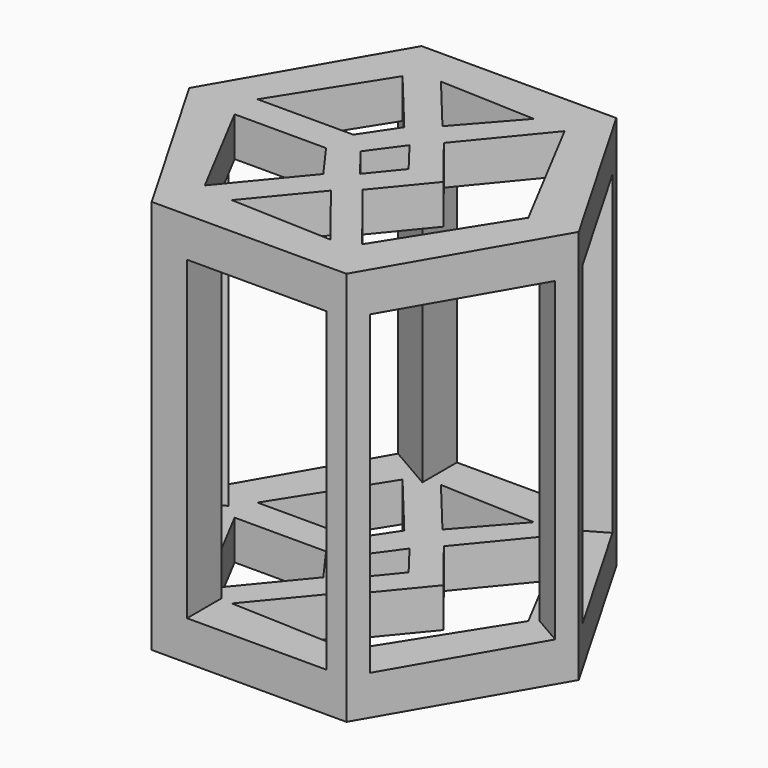
from build123d import *

# Parameters (mm, degrees)
F2_DEPTH = 25.4
F3_W     = 8.992830546
F3_H     = 20.32
F4_DEPTH = 21.7172655679
F6_DEPTH = 27.1463319599
F8_DEPTH = 27.1463319599


with BuildPart() as f2:
    # F1 (on face) → F2 (new body)
    with BuildSketch(Plane.XY):
        Polygon((12.5378917714, 0), (6.2689458857, 10.858132784), (-6.2689458857, 10.858132784), (-12.5378917714, 0), (-6.2689458857, -10.858132784), (6.2689458857, -10.858132784), align=None)
        Polygon((-3.0813198537, -0.8107819997), (-1.428119345, -3.1018054447), (-5.3015932459, -7.7946673792), (-8.9699157746, -0.8107819997), align=None, mode=Mode.SUBTRACT)
        Polygon((3.3147766868, -8.4572770768), (-3.2382511436, -8.1953331628), (0, -4.2720679194), align=None, mode=Mode.SUBTRACT)
        Polygon((-9.0911711595, 1.1845681444), (-4.9708869394, 7.7049685974), (-1.428119345, 3.4170282109), (-2.9231349472, 1.1845681444), align=None, mode=Mode.SUBTRACT)
        Polygon((0, 4.7049229033), (-3.0929306056, 8.4484092324), (3.0869638225, 8.2013805647), align=None, mode=Mode.SUBTRACT)
        Polygon((-1.4994712546, 0), (0, 2.0553264767), (1.5851336066, 0), (0, -1.9388410728), align=None, mode=Mode.SUBTRACT)
        Polygon((1.1896715732, 3.32692286), (5.1308790649, 8.1196792242), (9.5972880112, -0.3836320019), (4.8747631368, -7.8570856971), (1.1896715732, -3.2043200918), (3.8246668436, 0), align=None, mode=Mode.SUBTRACT)
    extrude(amount=F2_DEPTH)

    # F3 (on face) → F4 (cut, through all)
    with BuildSketch(Plane.XZ.offset(10.858132784)):
        with Locations((0.5025306127, 12.7)):
            Rectangle(F3_W, F3_H)
    extrude(amount=-F4_DEPTH, mode=Mode.SUBTRACT)

    # F5 (on face) → F6 (cut, through all)
    with BuildSketch(Plane(origin=(-9.4034188286, -5.429066392, 0), x_dir=(0.5, -0.8660254038, 0), z_dir=(-0.8660254038, -0.5, 0))):
        Polygon((-4.9989458857, 22.86), (-4.9989458857, 2.54), (4.9989458857, 2.54), (4.9989458857, 22.86), (0, 22.86), align=None)
    extrude(amount=-F6_DEPTH, mode=Mode.SUBTRACT)

    # F7 (on face) → F8 (cut, through all)
    with BuildSketch(Plane(origin=(-9.4034188286, 5.429066392, 0), x_dir=(-0.5, -0.8660254038, 0), z_dir=(-0.8660254038, 0.5, 0))):
        Polygon((-4.9989458857, 22.86), (-4.9989458857, 12.7), (-4.9989458857, 2.54), (4.9989458857, 2.54), (4.9989458857, 12.7), (4.9989458857, 22.86), (0, 22.86), align=None)
    extrude(amount=-F8_DEPTH, mode=Mode.SUBTRACT)


solid = f2.part
